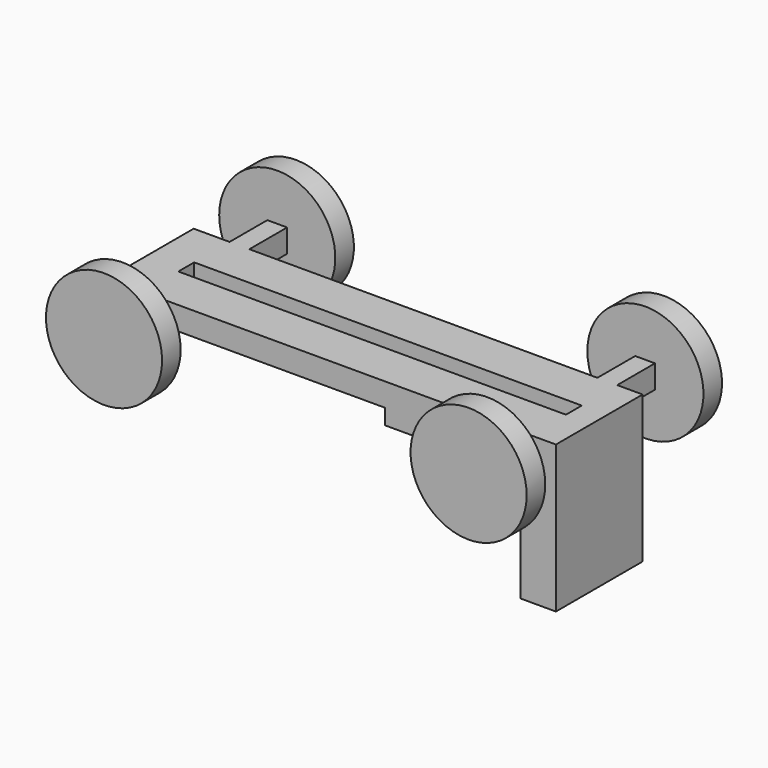
from build123d import *

# Parameters (mm, degrees)
F0_W     = 519.4771289825
F0_H     = 145.3515
F0_W_2   = 78.8426995277
F0_W_3   = 543.9197421074
F0_W_4   = 64.8887902498
F0_W_5   = 117.8393810987
F0_H_2   = 64.897
F0_H_3   = 145.9111776203
F0_W_6   = 64.897
F0_H_4   = 132.8892552004
F0_H_5   = 154.8609585657
F0_W_7   = 83.3352580338
F1_DEPTH = 76.2
F2_R     = 190.5
F3_DEPTH = 76.2
F4_R     = 190.5
F5_DEPTH = 76.2
F6_W     = 560.091412735
F6_H     = 355.6
F7_DEPTH = 50.8
F8_W     = 115.9408456802
F8_H     = 355.6
F9_DEPTH = 355.6


with BuildPart() as f1:
    # F0 (on Top) → F1 (new body)
    with BuildSketch(Plane.XY):
        with Locations((372.2674846649, 44.8714789324)):
            Rectangle(F0_W, F0_H)
        Polygon((112.5289201736, -160.693526268), (112.5289201736, -27.8042710676), (112.5289201736, 117.5472289324), (47.6401299238, 117.5472289324), (47.6401299238, -28.3639486879), (47.6401299238, -160.693526268), align=None)
        with Locations((671.4273989201, 44.8714789324)):
            Rectangle(F0_W_2, F0_H)
        with Locations((982.8086197376, 44.8714789324)):
            Rectangle(F0_W_3, F0_H)
        with Locations((80.0845250487, 255.1199789324)):
            Rectangle(F0_W_4, F0_H)
        Polygon((112.5289201736, 327.7957289324), (112.5289201736, 182.4442289324), (632.0060491562, 182.4442289324), (632.0060491562, 327.7957289324), (539.4007488251, 327.7957289324), align=None)
        with Locations((-11.2795606256, 149.9957289324)):
            Rectangle(F0_W_5, F0_H_2)
        with Locations((-11.2795606256, 44.5916401222)):
            Rectangle(F0_W_5, F0_H_3)
        with Locations((1287.2169907913, 44.8714789324)):
            Rectangle(F0_W_6, F0_H)
        with Locations((1287.2169907913, -94.2488986678)):
            Rectangle(F0_W_6, F0_H_4)
        Polygon((632.0060491562, 327.7957289324), (632.0060491562, 182.4442289324), (710.8487486839, 182.4442289324), (710.8487486839, 327.7957289324), (666.4007488251, 327.7957289324), align=None)
        with Locations((80.0845250487, 405.2262082152)):
            Rectangle(F0_W_4, F0_H_5)
        with Locations((-11.2795606256, 255.1199789324)):
            Rectangle(F0_W_5, F0_H)
        with Locations((1361.3331198082, 44.8714789324)):
            Rectangle(F0_W_7, F0_H)
        with Locations((982.8086197376, 255.1199789324)):
            Rectangle(F0_W_3, F0_H)
        with Locations((1361.3331198082, 149.9957289324)):
            Rectangle(F0_W_7, F0_H_2)
        with Locations((1287.2169907913, 255.1199789324)):
            Rectangle(F0_W_6, F0_H)
        with Locations((1361.3331198082, 255.1199789324)):
            Rectangle(F0_W_7, F0_H)
        with Locations((1287.2169907913, 405.2262082152)):
            Rectangle(F0_W_6, F0_H_5)
    extrude(amount=F1_DEPTH)

    # F2 (on face) → F3 (join)
    with BuildSketch(Plane(origin=(0, 482.6566874981, 0), x_dir=(-1, 0, 0), z_dir=(0, 1, 0))):
        with Locations((-80.1467373967, 39.5456925035)):
            Circle(F2_R)
        with Locations((-1288.2950305939, 39.5456925035)):
            Circle(F2_R)
    extrude(amount=F3_DEPTH)

    # F4 (on face) → F5 (join)
    with BuildSketch(Plane.XZ.offset(160.693526268)):
        with Locations((1283.8026285172, 38.1)):
            Circle(F4_R)
        with Locations((87.3321071267, 38.1)):
            Circle(F4_R)
    extrude(amount=F5_DEPTH)

    # F6 (on face) → F7 (join)
    with BuildSketch(Plane(origin=(0, 0, 0), x_dir=(1, 0, 0), z_dir=(0, 0, -1))):
        with Locations((1122.9550424576, -149.9957289324)):
            Rectangle(F6_W, F6_H)
    extrude(amount=F7_DEPTH)

    # F8 (on face) → F9 (join)
    with BuildSketch(Plane(origin=(0, 0, -50.8), x_dir=(1, 0, 0), z_dir=(0, 0, -1))):
        with Locations((1345.030325985, -149.9957289324)):
            Rectangle(F8_W, F8_H)
    extrude(amount=F9_DEPTH)


solid = f1.part
